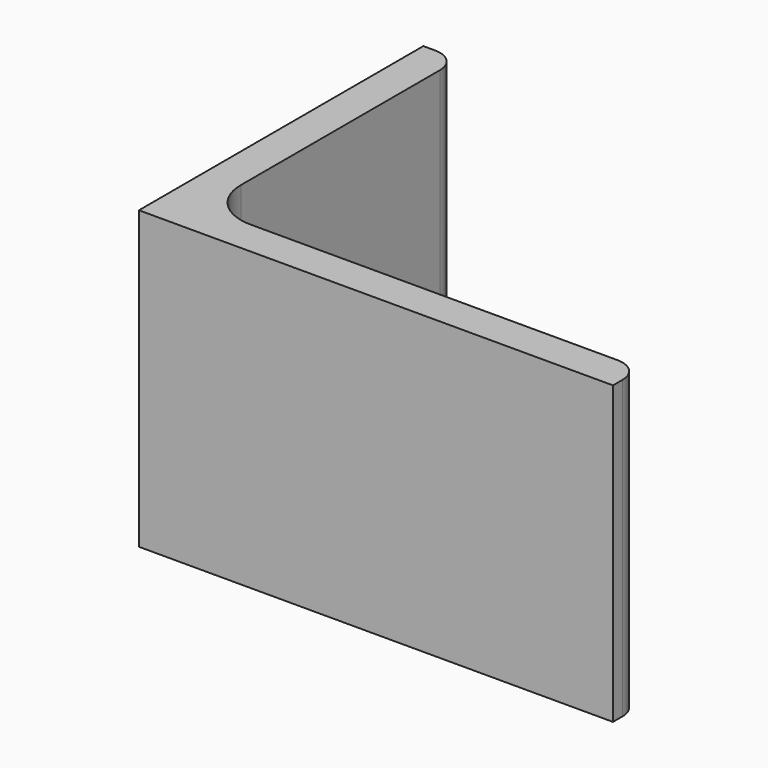
from build123d import *

# Parameters (mm, degrees)
EXTRUDE_DEPTH = 50


with BuildPart() as part:
    # Sketch → Extrude (new body)
    with BuildSketch(Plane.XY):
        with BuildLine():
            Line((0, 0), (80, 0))
            Line((80, 0), (80, 2))
            ThreePointArc((80, 2), (78.828427, 4.828427), (76, 6))
            Line((76, 6), (14, 6))
            ThreePointArc((6, 14), (8.343146, 8.343146), (14, 6))
            Line((6, 56), (6, 14))
            ThreePointArc((6, 56), (4.828427, 58.828427), (2, 60))
            Line((0, 60), (2, 60))
            Line((0, 0), (0, 60))
        make_face()
    extrude(amount=EXTRUDE_DEPTH)


solid = part.part
